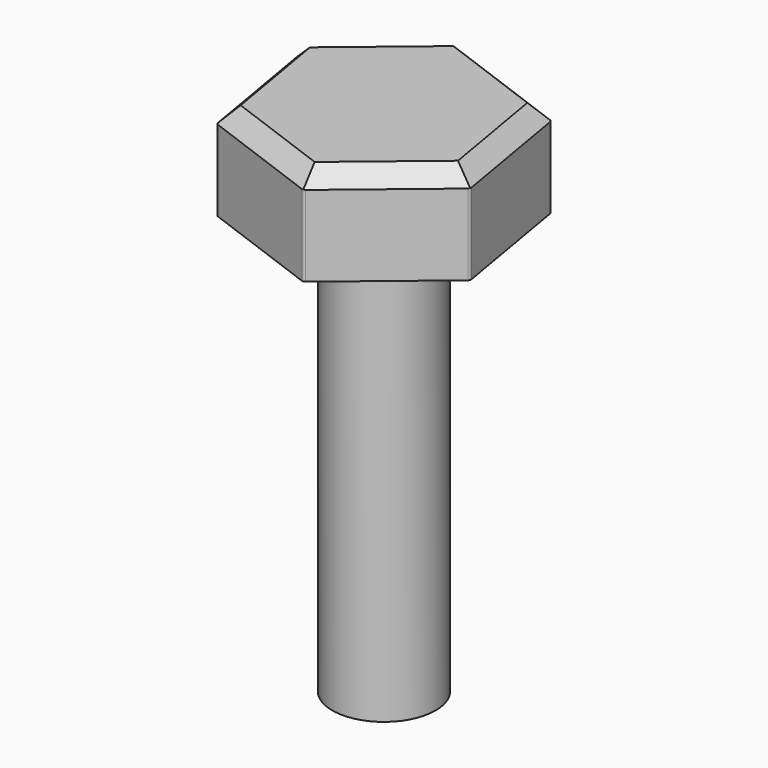
from build123d import *

# Parameters (mm, degrees)
F1_DEPTH = 30
F2_R     = 16
F3_DEPTH = 130
F4_SIZE  = 5
F5_R     = 1


with BuildPart() as f1:
    # F0 (on Top) → F1 (new body)
    with BuildSketch(Plane.XY):
        Polygon((6.831874, -39.832886), (37.912228, -13.999867), (31.080354, 25.83302), (-6.831874, 39.832886), (-37.912228, 13.999867), (-31.080354, -25.83302), align=None)
    extrude(amount=F1_DEPTH)

    # F2 (on face) → F3 (join)
    with BuildSketch(Plane(origin=(0, 0, 0), x_dir=(1, 0, 0), z_dir=(0, 0, -1))):
        Circle(F2_R)
    extrude(amount=F3_DEPTH)

    # F4
    f4_edges = [f1.edges().sort_by_distance(p)[0] for p in [
        (22.372051, -26.916377, 30),
        (-12.12424, -32.832953, 30),
        (-34.496291, -5.916576, 30),
        (-22.372051, 26.916377, 30),
        (12.12424, 32.832953, 30),
        (34.496291, 5.916576, 30),
    ]]
    chamfer(f4_edges, length=F4_SIZE)

    # F5
    f5_edges = [f1.edges().sort_by_distance(p)[0] for p in [
        (6.831874, -39.832886, 12.5),
        (37.912228, -13.999867, 12.5),
        (31.080354, 25.83302, 12.5),
        (-6.831874, 39.832886, 12.5),
        (-37.912228, 13.999867, 12.5),
        (-31.080354, -25.83302, 12.5),
    ]]
    fillet(f5_edges, radius=F5_R)


solid = f1.part
